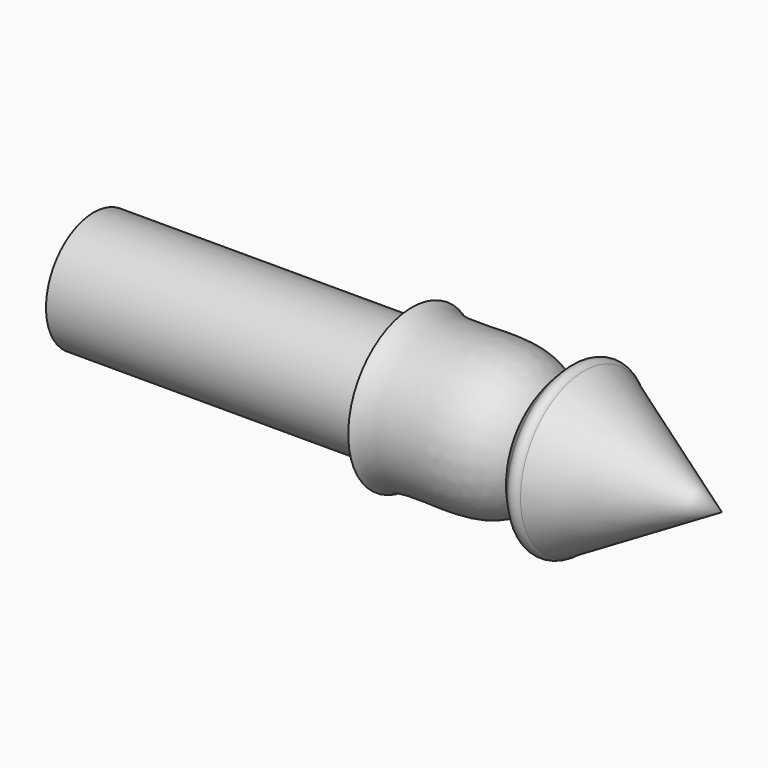
from build123d import *

# Parameters (mm, degrees)
F0_W = 40
F0_H = 7.5
F2_T = -1


with BuildPart() as f1:
    # F0 (on Top) → F1 (revolve)
    with BuildSketch(Plane.XY):
        with Locations((-23.359164299, 3.75)):
            Rectangle(F0_W, F0_H)
    revolve(axis=Axis((-23.359164299, 0, 0), (1, 0, 0)))

    # F2
    f2_openings = [f1.faces().sort_by_distance(p)[0] for p in [
        (-43.359164, 0, 0),
    ]]
    offset(amount=F2_T, openings=f2_openings)

    # F0 (on Top) → F3 (revolve)
    with BuildSketch(Plane.XY):
        with BuildLine():
            Line((-3.359164299, 10), (-3.359164299, 7.5))
            Line((-3.359164299, 7.5), (-3.359164299, 0))
            Line((-3.359164299, 0), (16.640835701, 0))
            add(Edge.make_bspline(
                [(13.8242446614, 5.8201136691), (15.4706541093, 3.8634896533), (16.522999446, 1.3952228585), (16.640835701, 0)],
                knots=[0.7411708943, 0.7411708943, 0.7411708943, 0.7411708943, 1, 1, 1, 1], degree=3))
            add(Edge.make_bspline(
                [(-3.359164299, 10), (-2.6756685908, 9.3742873677), (1.833779877, 8.8504755161), (9.6760817872, 9.8620826294), (13.1808157461, 6.5847767181), (13.8242446614, 5.8201136691)],
                knots=[0, 0, 0, 0, 0.2582901973, 0.6400185771, 0.7411708943, 0.7411708943, 0.7411708943, 0.7411708943], degree=3))
        make_face()
        with BuildLine():
            add(Edge.make_bspline(
                [(13.8242446614, 5.8201136691), (15.4706541093, 3.8634896533), (16.522999446, 1.3952228585), (16.640835701, 0)],
                knots=[0.7411708943, 0.7411708943, 0.7411708943, 0.7411708943, 1, 1, 1, 1], degree=3))
            Line((16.640835701, 0), (35.6210991124, 0))
            Line((35.6210991124, 0), (18.3005910367, 10))
            ThreePointArc((18.3005910367, 10), (17.4707133688, 10.4231546702), (16.640835701, 10))
            ThreePointArc((16.640835701, 10), (14.9843806263, 8.0772776447), (13.8242446614, 5.8201136691))
        make_face()
    revolve(axis=Axis((6.640835701, 0, 0), (1, 0, 0)))


solid = f1.part
